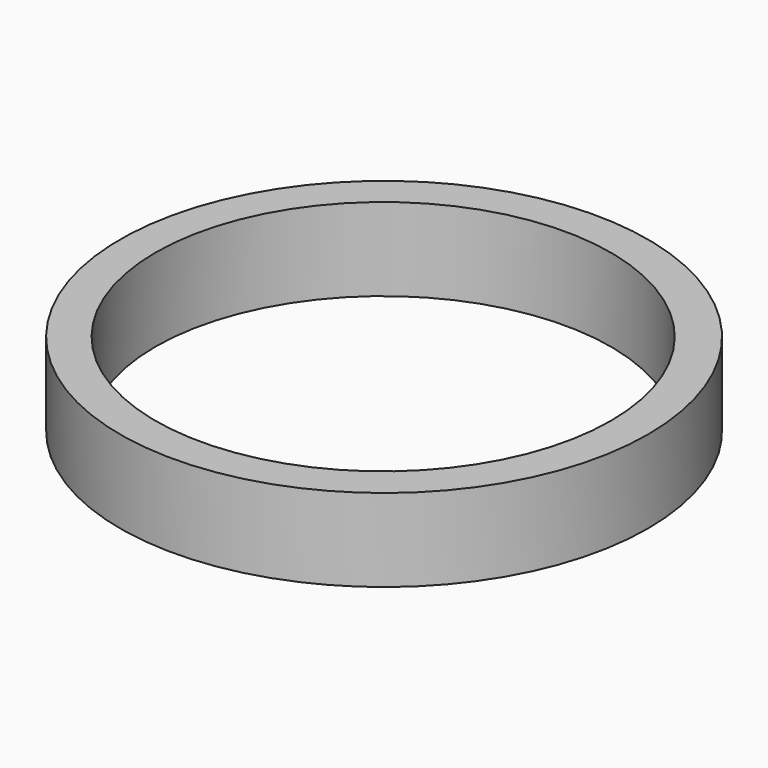
from build123d import *

# Parameters (mm, degrees)
F0_R     = 63.75
F1_DEPTH = 20
F2_R     = 55
F3_DEPTH = 25


with BuildPart() as f1:
    # F0 (on Top) → F1 (new body)
    with BuildSketch(Plane.XY):
        Circle(F0_R)
    extrude(amount=F1_DEPTH)


with BuildPart() as f3:
    # F2 (on Top) → F3 (new body)
    with BuildSketch(Plane.XY):
        with Locations((-173.995957, -105.135567)):
            Circle(F2_R)
    extrude(amount=F3_DEPTH)


with BuildPart() as f3_1:
    # F4: moved
    add(f3.part.moved(Location((173.8, 105.1, -2.2))))


with BuildPart() as f1_1:
    add(f1.part)

    # F5: cut F3
    add(f3_1.part, mode=Mode.SUBTRACT)


solid = f1_1.part
